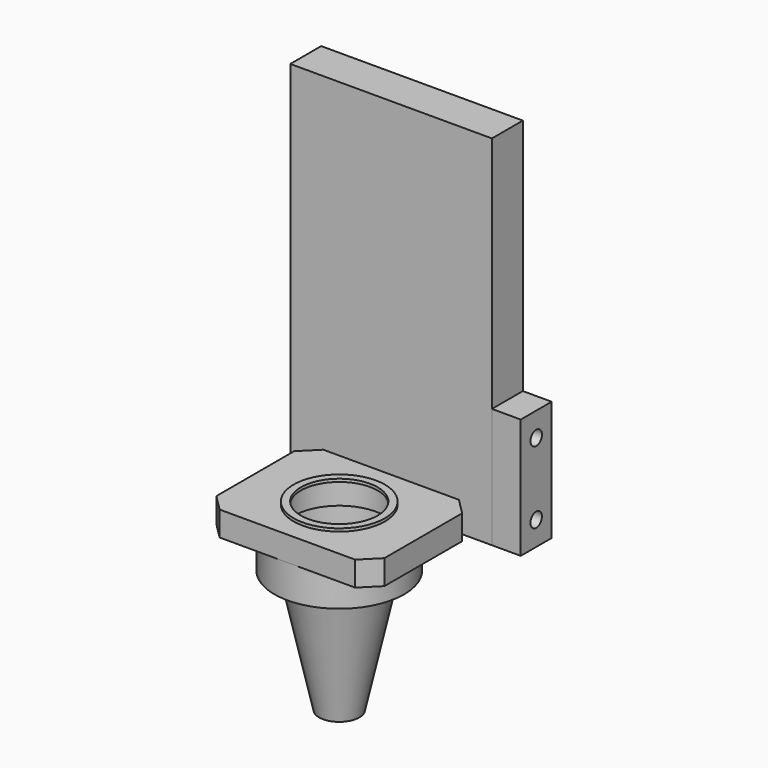
from build123d import *

# Parameters (mm, degrees)
F2_R           = 9.845
F0_R           = 4.185
F2_R_2         = 13.5
F4_DEPTH       = 6.93
F5_T           = -2.3
F6_R           = 11.2
F6_R_2         = 10.7
F6_R_3         = 9.5
F7_DEPTH       = 5.13
F8_R           = 9.5
F8_R_2         = 7.9979714966
F9_DEPTH       = 0.6
F11_DEPTH      = 68.5
F11_DEPTH_BACK = 6.1
F12_W          = 8.05
F12_H          = 25
F12_R          = 1.5
F13_DEPTH      = 6


with BuildPart() as f3:
    # F2 (on offset) → F3 section 0
    with BuildSketch(Plane.XY.offset(25.6)):
        Circle(F2_R)
    # F0 (on Top) → F3 section 1
    with BuildSketch(Plane.XY):
        Circle(F0_R)
    loft()

    # F2 (on offset) → F4 (join)
    with BuildSketch(Plane.XY.offset(25.6)):
        Circle(F2_R_2)
        Circle(F2_R, mode=Mode.SUBTRACT)
        Circle(F2_R)
    extrude(amount=F4_DEPTH)

    # F5
    f5_openings = [f3.faces().sort_by_distance(p)[0] for p in [
        (0, 0, 32.53),
        (0, 0, 0),
    ]]
    offset(amount=F5_T, openings=f5_openings, kind=Kind.INTERSECTION)

    # F6 (on face) → F7 (join)
    with BuildSketch(Plane.XY.offset(32.53)):
        with BuildLine():
            Line((-14.125, -13.5), (0, -13.5))
            ThreePointArc((0, -13.5), (-13.5, 7.8e-09), (1.55e-08, 13.5))
            Line((1.55e-08, 13.5), (-14.125, 13.5))
            Line((-14.125, 13.5), (-17.5, 10.125))
            Line((-17.5, 10.125), (-17.5, -10.125))
            Line((-17.5, -10.125), (-14.125, -13.5))
        make_face()
        with BuildLine():
            Line((0, -13.5), (14.125, -13.5))
            Line((14.125, -13.5), (17.5, -10.125))
            Line((17.5, -10.125), (17.5, 10.125))
            Line((17.5, 10.125), (14.125, 13.5))
            Line((14.125, 13.5), (1.55e-08, 13.5))
            ThreePointArc((1.55e-08, 13.5), (9.5459415515, 9.5459415405), (13.5, 0))
            ThreePointArc((13.5, 0), (9.545941546, -9.545941546), (0, -13.5))
        make_face()
        with BuildLine():
            Line((-14.125, -13.5), (0, -13.5))
            ThreePointArc((0, -13.5), (-13.5, 7.8e-09), (1.55e-08, 13.5))
            Line((1.55e-08, 13.5), (-14.125, 13.5))
            Line((-14.125, 13.5), (-17.5, 10.125))
            Line((-17.5, 10.125), (-17.5, -10.125))
            Line((-17.5, -10.125), (-14.125, -13.5))
        make_face()
        with BuildLine():
            Line((-14.125, -13.5), (0, -13.5))
            ThreePointArc((0, -13.5), (-13.5, 7.8e-09), (1.55e-08, 13.5))
            Line((1.55e-08, 13.5), (-14.125, 13.5))
            Line((-14.125, 13.5), (-17.5, 10.125))
            Line((-17.5, 10.125), (-17.5, -10.125))
            Line((-17.5, -10.125), (-14.125, -13.5))
        make_face()
        with BuildLine():
            ThreePointArc((1.55e-08, 13.5), (-13.5, 7.8e-09), (0, -13.5))
            ThreePointArc((0, -13.5), (9.545941546, -9.545941546), (13.5, 0))
            ThreePointArc((13.5, 0), (9.5459415515, 9.5459415405), (1.55e-08, 13.5))
        make_face()
        Circle(F6_R, mode=Mode.SUBTRACT)
        Circle(F6_R)
        Circle(F6_R_2, mode=Mode.SUBTRACT)
        Circle(F6_R_2)
        Circle(F6_R_3, mode=Mode.SUBTRACT)
    extrude(amount=F7_DEPTH)


with BuildPart() as f9:
    # F8 (on face) → F9 (new body)
    with BuildSketch(Plane.XY.offset(37.66)):
        Circle(F8_R)
        Circle(F8_R_2, mode=Mode.SUBTRACT)
    extrude(amount=F9_DEPTH)


with BuildPart() as f11:
    # F10 (on face) → F11 (new body, two sides)
    with BuildSketch(Plane.XY.offset(37.66)) as f11_sk:
        Polygon((14.125, 13.5), (21, 13.5), (21, 21.55), (-21, 21.55), (-21, 13.5), (-14.125, 13.5), align=None)
    extrude(amount=F11_DEPTH)
    extrude(f11_sk.sketch, amount=-F11_DEPTH_BACK)


with BuildPart() as f13:
    # F12 (on face) → F13 (new body)
    with BuildSketch(Plane.YZ.offset(21)):
        with Locations((17.525, 44.06)):
            Rectangle(F12_W, F12_H)
        with Locations((17.525, 36.56)):
            Circle(F12_R, mode=Mode.SUBTRACT)
        with Locations((17.525, 51.56)):
            Circle(F12_R, mode=Mode.SUBTRACT)
    extrude(amount=F13_DEPTH)


solid = Compound([f3.part, f9.part, f11.part, f13.part])
